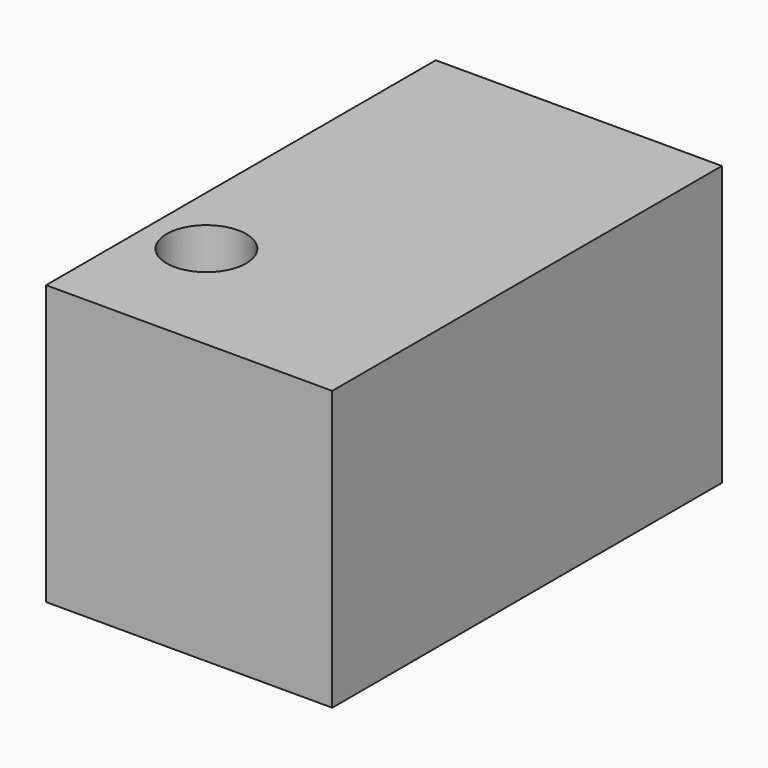
from build123d import *

# Parameters (mm, degrees)
F0_W     = 127.9261372983
F0_H     = 87.7036768943
F1_DEPTH = 45.72
F2_R     = 17.7920916597
F3_DEPTH = 45.72
F4_W     = 127.9261372983
F4_H     = 45.72
F4_R     = 16.3569276355
F5_DEPTH = 130.048
F6_DEPTH = 25.4
F7_DEPTH = 104.394


with BuildPart() as f1:
    # F0 (on Top) → F1 (new body)
    with BuildSketch(Plane.XY):
        with Locations((-2.9164496809, -12.6540614292)):
            Rectangle(F0_W, F0_H)
    extrude(amount=F1_DEPTH)

    # F2 (on face) → F3 (cut)
    with BuildSketch(Plane.XY.offset(45.72)):
        with Locations((-40.4178053141, 0)):
            Circle(F2_R)
    extrude(amount=-F3_DEPTH, mode=Mode.SUBTRACT)

    # F4 (on face) → F5 (join)
    with BuildSketch(Plane(origin=(0, 31.197777018, 0), x_dir=(-1, 0, 0), z_dir=(0, 1, 0))):
        with Locations((2.9164496809, 22.86)):
            Rectangle(F4_W, F4_H)
        with Locations((14.2273971344, 27.2544236794)):
            Circle(F4_R, mode=Mode.SUBTRACT)
    extrude(amount=F5_DEPTH)

    # F6 (cut): a face of the model
    f6_faces = [f1.faces().sort_by_distance(p)[0] for p in [
        (-1.528037409, 54.3088302233, 0),
    ]]
    extrude(f6_faces, amount=-F6_DEPTH, mode=Mode.SUBTRACT)

    # F7 (add): a face of the model
    f7_faces = [f1.faces().sort_by_distance(p)[0] for p in [
        (58.5211311066, 52.3699385708, 25.4),
    ]]
    extrude(f7_faces, amount=F7_DEPTH)


solid = f1.part
